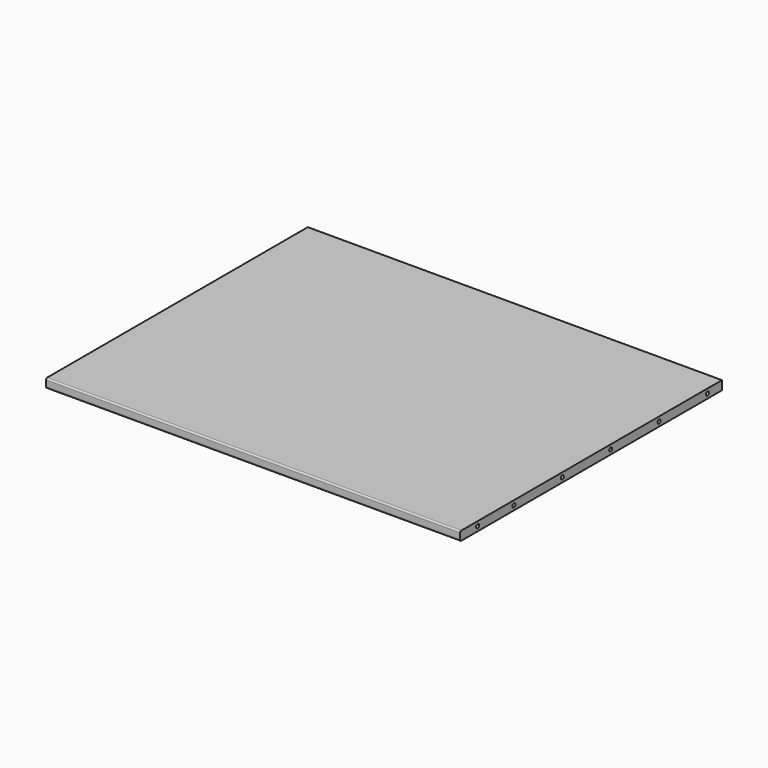
from build123d import *

# Parameters (mm, degrees)
F0_W     = 876.3
F0_H     = 692.15
F1_DEPTH = 19.05
F2_R     = 3.175
F4_D     = 8.001
F4_DEPTH = 25.4
F4_TIP   = 2.4037429064
F6_D     = 8.001
F6_DEPTH = 25.4
F6_TIP   = 2.4037429064
F8_D     = 8.001
F8_DEPTH = 25.4
F8_TIP   = 2.4037429064


with BuildPart() as f1:
    # F0 (on Top) → F1 (new body)
    with BuildSketch(Plane.XY):
        Rectangle(F0_W, F0_H)
    extrude(amount=F1_DEPTH)

    # F2
    f2_edges = [f1.edges().sort_by_distance(p)[0] for p in [
        (0, -346.075, 19.05),
        (0, -346.075, 0),
    ]]
    fillet(f2_edges, radius=F2_R)

    # F4
    with Locations(Plane.YZ.offset(438.15)):
        with Locations((307.975, 9.525), (179.97424, 9.525), (51.97348, 9.525), (-76.02728, 9.525), (-204.02804, 9.525), (-300.02734, 9.525)):
            Hole(F4_D / 2, depth=F4_DEPTH)
            with Locations((0, 0, -(F4_DEPTH + F4_TIP / 2))):  # 118° drill point
                Cone(0, F4_D / 2, F4_TIP, mode=Mode.SUBTRACT)

    # F6
    with Locations(Plane(origin=(-438.15, 0, 0), x_dir=(0, -1, 0), z_dir=(-1, 0, 0))):
        with Locations((-307.975, 9.525), (-179.97424, 9.525), (-51.97348, 9.525), (76.02728, 9.525), (204.02804, 9.525), (300.02734, 9.525)):
            Hole(F6_D / 2, depth=F6_DEPTH)
            with Locations((0, 0, -(F6_DEPTH + F6_TIP / 2))):  # 118° drill point
                Cone(0, F6_D / 2, F6_TIP, mode=Mode.SUBTRACT)

    # F8
    with Locations(Plane(origin=(0, 346.075, 0), x_dir=(-1, 0, 0), z_dir=(0, 1, 0))):
        with Locations((-400.05, 9.525), (-272.04924, 9.525), (-144.04848, 9.525), (16.04772, 9.525), (144.04848, 9.525), (272.04924, 9.525), (400.05, 9.525)):
            Hole(F8_D / 2, depth=F8_DEPTH)
            with Locations((0, 0, -(F8_DEPTH + F8_TIP / 2))):  # 118° drill point
                Cone(0, F8_D / 2, F8_TIP, mode=Mode.SUBTRACT)


solid = f1.part
